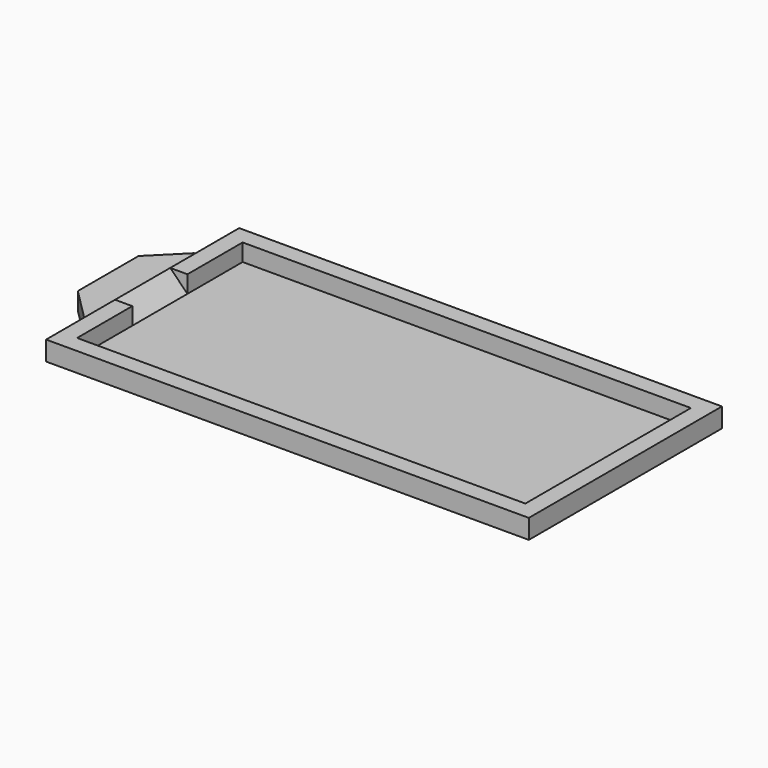
from build123d import *

# Parameters (mm, degrees)
BOX001_W        = 3
BOX001_H        = 4
BOX001_DEPTH    = 5
CHAMFER_SIZE    = 2
BOX002_W        = 2
BOX002_H        = 8
BOX002_DEPTH    = 1
CHAMFER001_SIZE = 1.8
SKETCH004_W     = 1
SKETCH004_H     = 14
PAD004_DEPTH    = 1
SKETCH005_W     = 28
SKETCH005_H     = 1
PAD005_DEPTH    = 1
SKETCH006_W     = 1
SKETCH006_H     = 14
PAD006_DEPTH    = 1
SKETCH003_W     = 28
SKETCH003_H     = 1
PAD003_DEPTH    = 1
BOX_W           = 28
BOX_H           = 14
BOX_DEPTH       = 0.125


with BuildPart() as chamfer_body:
    # Box001 → Box001 (new body)
    with BuildSketch(Plane(origin=(-1, 5, 0.125), x_dir=(1, 0, 0), z_dir=(0, 0, 1))):
        with Locations((1.5, 2)):
            Rectangle(BOX001_W, BOX001_H)
    extrude(amount=BOX001_DEPTH)

    # Chamfer
    chamfer_edges = [chamfer_body.edges().sort_by_distance(p)[0] for p in [
        (-1, 7, 0.125),
    ]]
    chamfer(chamfer_edges, length=CHAMFER_SIZE)


with BuildPart() as chamfer001:
    # Box002 → Box002 (new body)
    with BuildSketch(Plane(origin=(-2, 3, 0), x_dir=(1, 0, 0), z_dir=(0, 0, 1))):
        with Locations((1, 4)):
            Rectangle(BOX002_W, BOX002_H)
    extrude(amount=BOX002_DEPTH)

    # Chamfer001
    chamfer001_edges = [chamfer001.edges().sort_by_distance(p)[0] for p in [
        (-2, 3, 0.5),
        (-2, 11, 0.5),
    ]]
    chamfer(chamfer001_edges, length=CHAMFER001_SIZE)


with BuildPart() as pad004:
    # Sketch004 → Pad004 (new body)
    with BuildSketch(Plane.XY.offset(0.125)):
        with Locations((0.5, 7)):
            Rectangle(SKETCH004_W, SKETCH004_H)
    extrude(amount=PAD004_DEPTH)


with BuildPart() as pad005:
    # Sketch005 → Pad005 (new body)
    with BuildSketch(Plane.XY.offset(0.125)):
        with Locations((14, 0.5)):
            Rectangle(SKETCH005_W, SKETCH005_H)
    extrude(amount=PAD005_DEPTH)


with BuildPart() as pad006:
    # Sketch006 → Pad006 (new body)
    with BuildSketch(Plane.XY.offset(0.125)):
        with Locations((27.5, 7)):
            Rectangle(SKETCH006_W, SKETCH006_H)
    extrude(amount=PAD006_DEPTH)


with BuildPart() as walls:
    # Sketch003 → Pad003 (new body)
    with BuildSketch(Plane.XY.offset(0.125)):
        with Locations((14, 13.5)):
            Rectangle(SKETCH003_W, SKETCH003_H)
    extrude(amount=PAD003_DEPTH)

    # Fusion001: union Pad004, Pad005, Pad006
    add(pad004.part)
    add(pad005.part)
    add(pad006.part)

    # Fusion: union Chamfer001
    add(chamfer001.part)

    # Cut: cut Chamfer body
    add(chamfer_body.part, mode=Mode.SUBTRACT)


with BuildPart() as base_and_walls_do_not_edit:
    # Box → Box (new body)
    with BuildSketch(Plane.XY):
        with Locations((14, 7)):
            Rectangle(BOX_W, BOX_H)
    extrude(amount=BOX_DEPTH)

    # Fusion024: union Walls
    add(walls.part)


solid = base_and_walls_do_not_edit.part
